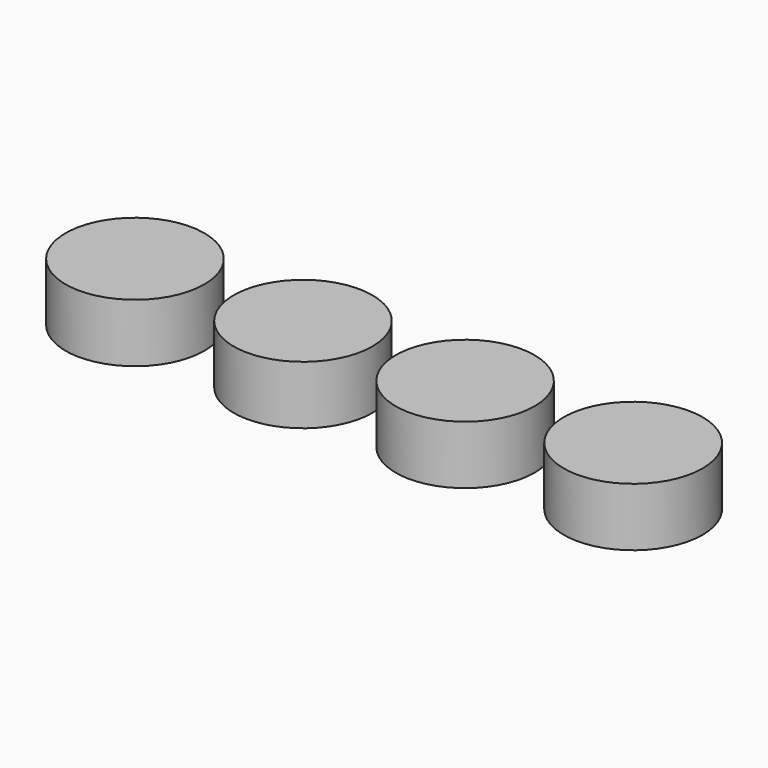
from build123d import *

# Parameters (mm, degrees)
F0_R     = 30.099
F0_R_2   = 30.1117
F0_R_3   = 30.1244
F0_R_4   = 30.1371
F1_DEPTH = 25.4


with BuildPart() as f1:
    # F0 (on Top) → F1 (new body)
    with BuildSketch(Plane.XY):
        Circle(F0_R)
        with Locations((-70.362913, 0)):
            Circle(F0_R_2)
        with Locations((-143.299013, 0)):
            Circle(F0_R_3)
        with Locations((72.9361, 0)):
            Circle(F0_R_4)
    extrude(amount=F1_DEPTH)


solid = f1.part
